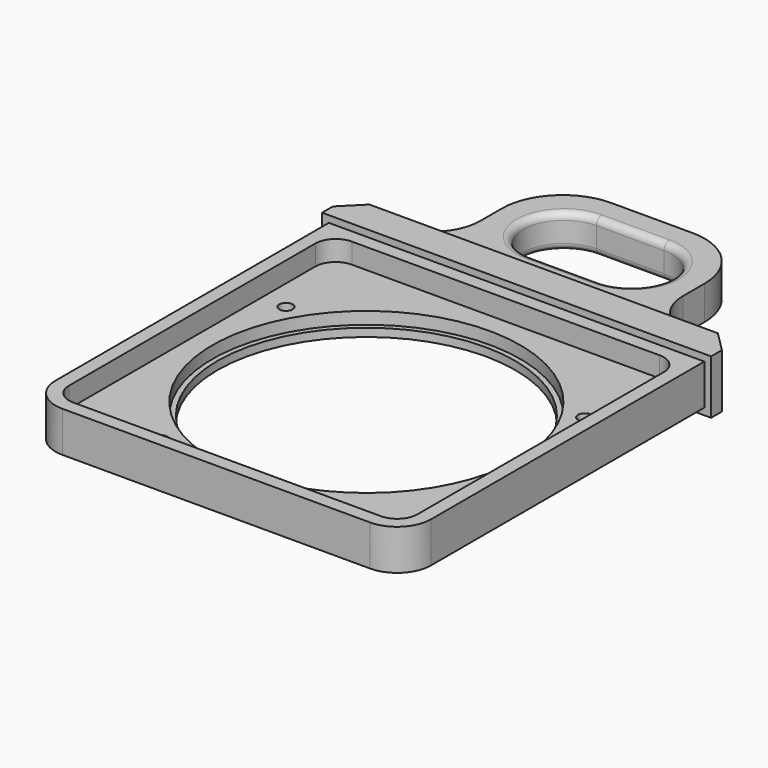
from build123d import *

# Parameters (mm, degrees)
SKETCH_W        = 55.5
SKETCH_H        = 55.5
SKETCH_R        = 22.75
PAD_DEPTH       = 6
SKETCH001_W     = 57.5
SKETCH001_H     = 8
PAD001_DEPTH    = 5
SKETCH002_W     = 30
SKETCH002_H     = 5
PAD002_DEPTH    = 20
FILLET_R        = 5
POCKET_DEPTH    = 6
FILLET001_R     = 9
FILLET002_R     = 7
CHAMFER_SIZE    = 3
SKETCH004_R     = 22.75
SKETCH004_R_2   = 22
PAD003_DEPTH    = 1.2
SKETCH005_W     = 51.5
SKETCH005_H     = 51.5
POCKET001_DEPTH = 3
SKETCH006_R     = 1
POCKET002_DEPTH = 6
FILLET003_R     = 1
FILLET004_R     = 1
FILLET005_R     = 3


with BuildPart() as part:
    # Sketch → Pad (new body)
    with BuildSketch(Plane.XY):
        Rectangle(SKETCH_W, SKETCH_H)
        Circle(SKETCH_R, mode=Mode.SUBTRACT)
    extrude(amount=PAD_DEPTH)

    # Sketch001 → Pad001 (new body)
    with BuildSketch(Plane(origin=(0, 27.75, 0), x_dir=(-1, 0, 0), z_dir=(0, 1, 0))):
        with Locations((0, 3)):
            Rectangle(SKETCH001_W, SKETCH001_H)
    extrude(amount=PAD001_DEPTH)

    # Sketch002 → Pad002 (new body)
    with BuildSketch(Plane(origin=(0, 32.75, 0), x_dir=(-1, 0, 0), z_dir=(0, 1, 0))):
        with Locations((0, 3)):
            Rectangle(SKETCH002_W, SKETCH002_H)
    extrude(amount=PAD002_DEPTH)

    # Fillet
    fillet_edges = [part.edges().sort_by_distance(p)[0] for p in [
        (-27.75, -27.75, 3),
        (27.75, -27.75, 3),
    ]]
    fillet(fillet_edges, radius=FILLET_R)

    # Sketch003 → Pocket (cut)
    with BuildSketch(Plane(origin=(0, 0, 0.5), x_dir=(1, 0, 0), z_dir=(0, 0, -1))):
        with BuildLine():
            ThreePointArc((-5, -36.75), (-11, -42.75), (-5, -48.75))
            Line((-5, -48.75), (5, -48.75))
            ThreePointArc((5, -48.75), (11, -42.75), (5, -36.75))
            Line((-5, -36.75), (5, -36.75))
        make_face()
    extrude(amount=-POCKET_DEPTH, mode=Mode.SUBTRACT)

    # Fillet001
    fillet001_edges = [part.edges().sort_by_distance(p)[0] for p in [
        (15, 52.75, 3),
        (-15, 52.75, 3),
    ]]
    fillet(fillet001_edges, radius=FILLET001_R)

    # Fillet002
    fillet002_edges = [part.edges().sort_by_distance(p)[0] for p in [
        (15, 32.75, 3),
        (-15, 32.75, 3),
    ]]
    fillet(fillet002_edges, radius=FILLET002_R)

    # Chamfer
    chamfer_edges = [part.edges().sort_by_distance(p)[0] for p in [
        (-28.75, 32.75, 3),
        (28.75, 32.75, 3),
    ]]
    chamfer(chamfer_edges, length=CHAMFER_SIZE)

    # Sketch004 → Pad003 (new body)
    with BuildSketch(Plane(origin=(0, 0, 0), x_dir=(1, 0, 0), z_dir=(0, 0, -1))):
        Circle(SKETCH004_R)
        Circle(SKETCH004_R_2, mode=Mode.SUBTRACT)
    extrude(amount=-PAD003_DEPTH)

    # Sketch005 → Pocket001 (cut)
    with BuildSketch(Plane.XY.offset(6)):
        Rectangle(SKETCH005_W, SKETCH005_H)
    extrude(amount=-POCKET001_DEPTH, mode=Mode.SUBTRACT)

    # Sketch006 → Pocket002 (cut)
    with BuildSketch(Plane.XY.offset(3)):
        with Locations((-22.083648, 12.75)):
            Circle(SKETCH006_R)
        with Locations((22.083648, 12.75)):
            Circle(SKETCH006_R)
        with Locations((-12.75, -22.083648)):
            Circle(SKETCH006_R)
    extrude(amount=-POCKET002_DEPTH, mode=Mode.SUBTRACT)

    # Fillet003
    fillet003_edges = [part.edges().sort_by_distance(p)[0] for p in [
        (0, 48.75, 5.5),
    ]]
    fillet(fillet003_edges, radius=FILLET003_R)

    # Fillet004
    fillet004_edges = [part.edges().sort_by_distance(p)[0] for p in [
        (0, 36.75, 0.5),
    ]]
    fillet(fillet004_edges, radius=FILLET004_R)

    # Fillet005
    fillet005_edges = [part.edges().sort_by_distance(p)[0] for p in [
        (-25.75, -25.75, 4.5),
        (25.75, -25.75, 4.5),
        (25.75, 25.75, 4.5),
        (-25.75, 25.75, 4.5),
    ]]
    fillet(fillet005_edges, radius=FILLET005_R)


solid = part.part
